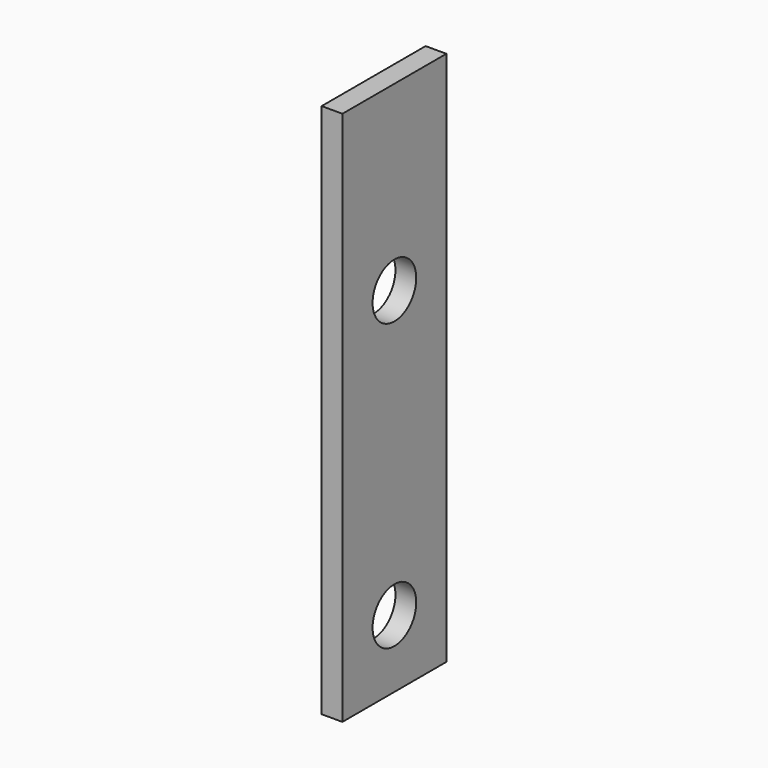
from build123d import *

# Parameters (mm, degrees)
F0_W     = 25
F0_H     = 103
F0_R     = 5.25
F1_DEPTH = 4


with BuildPart() as f1:
    # F0 (on Right) → F1 (new body)
    with BuildSketch(Plane.YZ):
        Rectangle(F0_W, F0_H)
        with Locations((0, -38.5)):
            Circle(F0_R, mode=Mode.SUBTRACT)
        with Locations((0, 16.5)):
            Circle(F0_R, mode=Mode.SUBTRACT)
    extrude(amount=F1_DEPTH)


solid = f1.part
